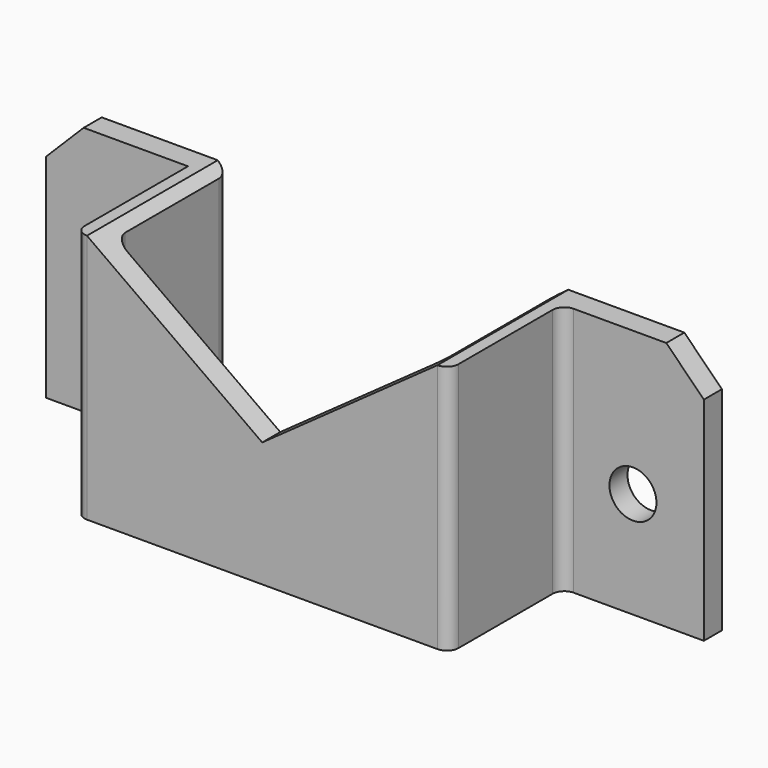
from build123d import *

# Parameters (mm, degrees)
F1_DEPTH = 31.75
F3_DEPTH = 2.032
F4_SIZE  = 5.08
F5_R     = 3.175
F6_DEPTH = 3.048
F7_R     = 1.5875
F9_DEPTH = 22.0939118459


with BuildPart() as f1:
    # F0 (on Top) → F1 (new body)
    with BuildSketch(Plane.XY):
        Polygon((-25.273, 19.05), (-25.273, 0), (25.273, 0), (25.273, 19.05), (44.45, 19.05), (44.45, 22.098), (22.225, 22.098), (22.225, 3.048), (-22.225, 3.048), (-22.225, 22.098), (-44.45, 22.098), (-44.45, 19.05), align=None)
    extrude(amount=F1_DEPTH)

    # F2 (on face) → F3 (join)
    with BuildSketch(Plane(origin=(0, 0, 0), x_dir=(1, 0, 0), z_dir=(0, 0, -1))):
        Polygon((25.273, 0), (-25.273, 0), (-25.273, -19.05), (-44.45, -19.05), (-44.45, -22.098), (-25.273, -22.098), (-6.35, -22.098), (-6.35, -18.923), (6.35, -18.923), (6.35, -22.098), (25.273, -22.098), (44.45, -22.098), (44.45, -19.05), (25.273, -19.05), align=None)
    extrude(amount=F3_DEPTH)

    # F4
    f4_edges = [f1.edges().sort_by_distance(p)[0] for p in [
        (44.45, 20.574, 31.75),
        (-44.45, 20.574, 31.75),
    ]]
    chamfer(f4_edges, length=F4_SIZE)

    # F5 (on face) → F6 (cut, through all)
    with BuildSketch(Plane.XZ.offset(-19.05)):
        with Locations((-34.8615, 12.319)):
            Circle(F5_R)
        with Locations((34.8615, 12.319)):
            Circle(F5_R)
    extrude(amount=-F6_DEPTH, mode=Mode.SUBTRACT)

    # F7
    f7_edges = [f1.edges().sort_by_distance(p)[0] for p in [
        (25.273, 0, 14.859),
        (-25.273, 0, 14.859),
        (25.273, 19.05, 14.859),
        (22.225, 3.048, 15.875),
        (22.225, 22.098, 15.875),
        (-22.225, 3.048, 15.875),
        (-22.225, 22.098, 15.875),
    ]]
    fillet(f7_edges, radius=F7_R)

    # F8 (on face) → F9 (cut, through all)
    with BuildSketch(Plane.XZ):
        Polygon((23.6855, 31.75), (-23.6855, 31.75), (0, 14.859), align=None)
    extrude(amount=-F9_DEPTH, mode=Mode.SUBTRACT)


solid = f1.part
